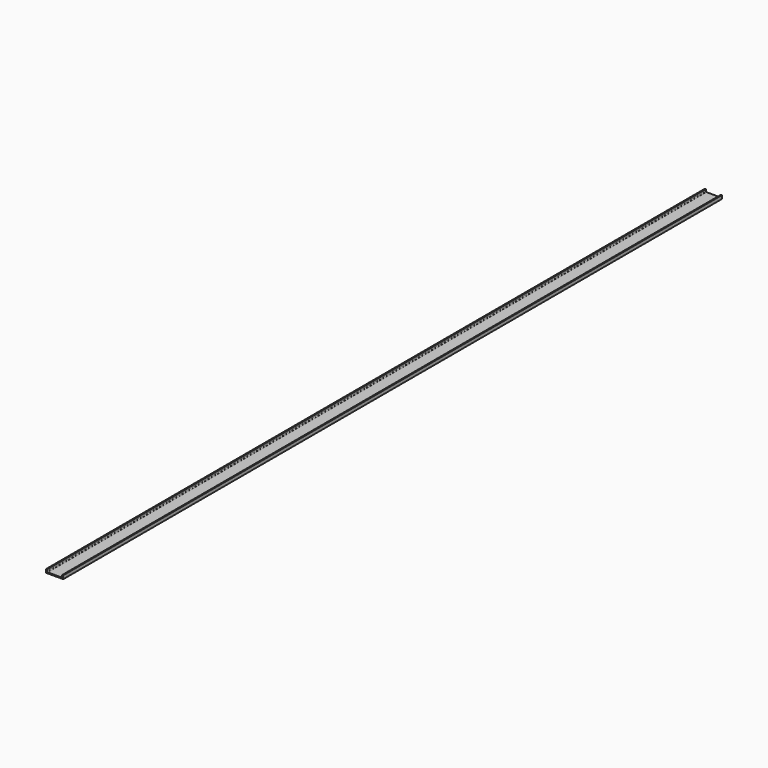
from build123d import *

# Parameters (mm, degrees)
F1_DEPTH = 2400


with BuildPart() as f1:
    # F0 (on Front) → F1 (new body)
    with BuildSketch(Plane.XZ):
        with BuildLine():
            Line((0, 10), (0, 0))
            Line((0, 0), (50, 0))
            Line((50, 0), (50, 10))
            Line((50, 10), (47, 10))
            Line((47, 10), (47, 5))
            ThreePointArc((47, 5), (46.414214, 3.585786), (45, 3))
            Line((45, 3), (5, 3))
            ThreePointArc((5, 3), (3.585786, 3.585786), (3, 5))
            Line((3, 5), (3, 10))
            Line((3, 10), (0, 10))
        make_face()
    extrude(amount=-F1_DEPTH)


solid = f1.part
